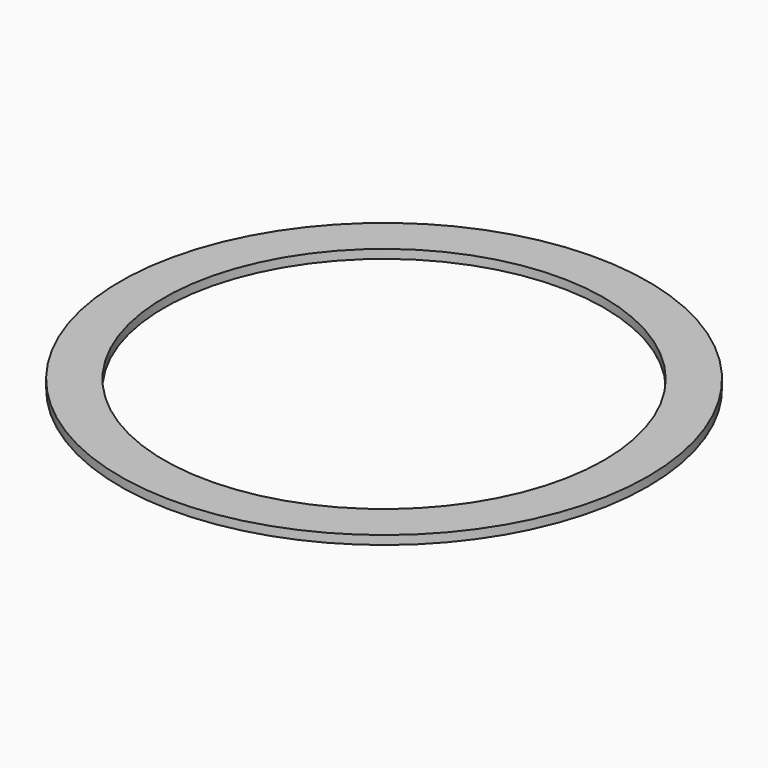
from build123d import *

# Parameters (mm, degrees)
SKETCH_R   = 30
SKETCH_R_2 = 25
PAD_DEPTH  = 1


with BuildPart() as part:
    # Sketch → Pad (new body)
    with BuildSketch(Plane.XY):
        Circle(SKETCH_R)
        Circle(SKETCH_R_2, mode=Mode.SUBTRACT)
    extrude(amount=PAD_DEPTH)


solid = part.part
